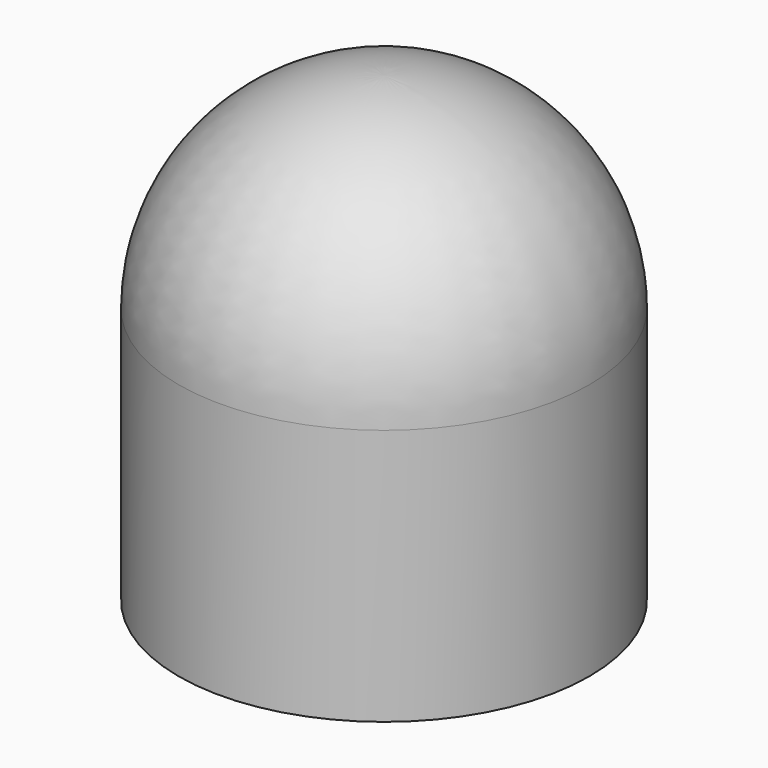
from build123d import *


with BuildPart() as f1:
    # F0 (on Front) → F1 (revolve)
    with BuildSketch(Plane.XZ):
        with BuildLine():
            Line((1.4, 3), (1.4, 0))
            Line((1.4, 0), (2.4, 0))
            Line((2.4, 0), (2.4, 3))
            ThreePointArc((2.4, 3), (1.697056, 4.697056), (0, 5.4))
            Line((0, 5.4), (0, 4.2))
            Line((0, 4.2), (1.4, 3))
        make_face()
    revolve(axis=Axis((0, 0, 1.5), (0, 0, 1)))


solid = f1.part
